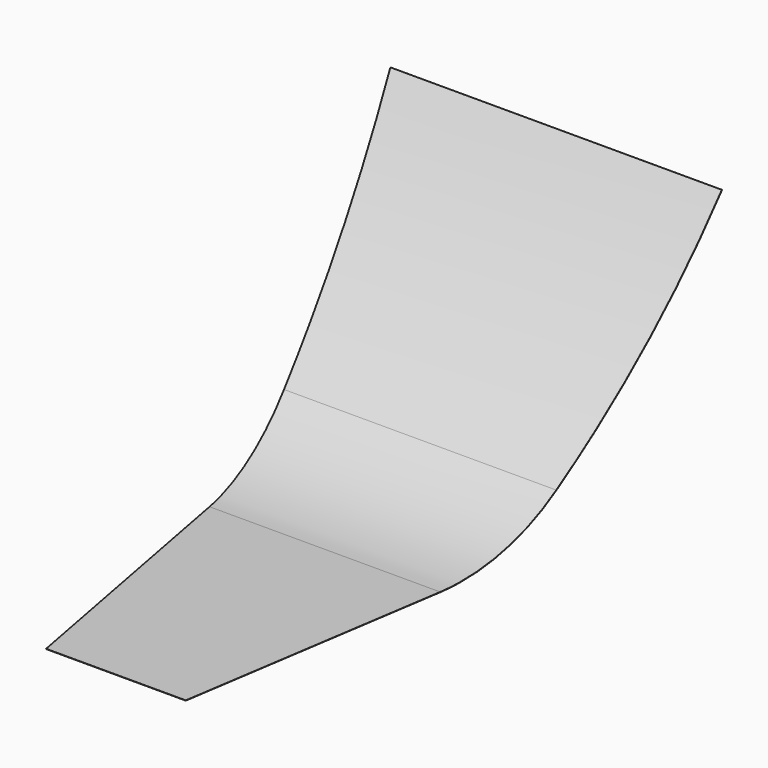
from build123d import *

# Parameters (mm, degrees)
F2_DEPTH = 120
F4_DEPTH = 145


with BuildPart() as f2:
    # F0 (on Right) → F2 (new body)
    with BuildSketch(Plane.YZ):
        with BuildLine():
            Line((23.077911, 0), (-73.702917, 0))
            Line((-73.702917, 0), (-73.702917, -0.1))
            Line((-73.702917, -0.1), (23.077911, -0.1))
            ThreePointArc((23.077911, -0.1), (46.706308, 4.228731), (67.265611, 16.652665))
            ThreePointArc((67.265611, 16.652665), (101.499068, 50.930973), (130.260893, 89.914167))
            Line((130.260893, 89.914167), (130.176226, 89.967379))
            ThreePointArc((130.176226, 89.967379), (101.423029, 50.995919), (67.199811, 16.72797))
            ThreePointArc((67.199811, 16.72797), (46.671168, 4.322354), (23.077911, 0))
        make_face()
    extrude(amount=F2_DEPTH)

    # F3 (on Top) → F4 (cut, symmetric)
    with BuildSketch(Plane.XY):
        Polygon((-37.878595, -99.638596), (0, -73.850274), (38.47, -73.850274), (0, 130.24354), (-3.183729, 133.665696), align=None)
        Polygon((89.001395, -73.850274), (120.108634, -73.850274), (258.561343, -143.556684), (134.18667, 128.497958), (121.706635, 131.587684), (120.04061, 130.194277), align=None)
    extrude(amount=F4_DEPTH, both=True, mode=Mode.SUBTRACT)


solid = f2.part
